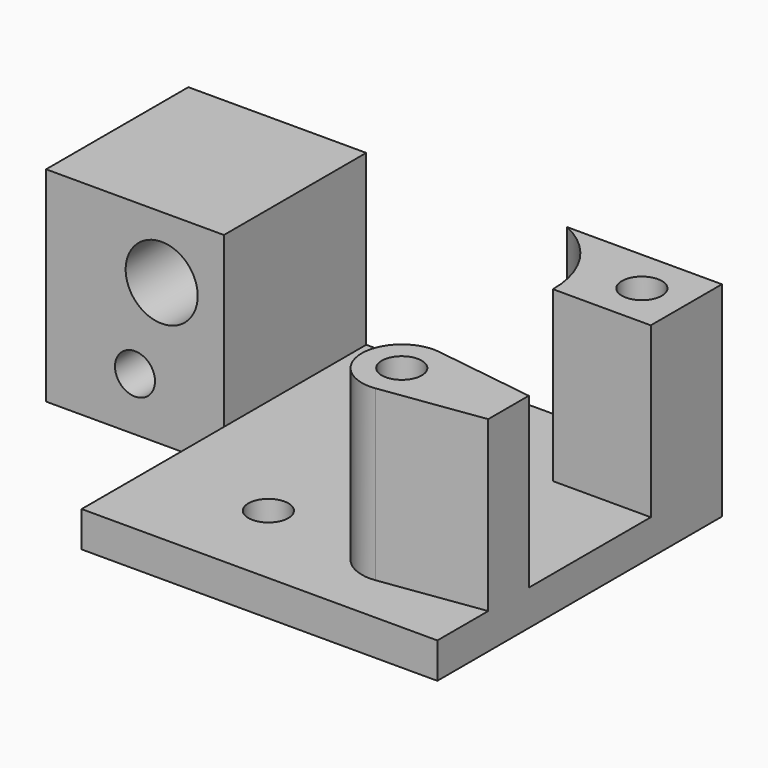
from build123d import *

# Parameters (mm, degrees)
SKETCH_R        = 2.25
PAD_DEPTH       = 23
POCKET_DEPTH    = 19
SKETCH002_R     = 4.05
SKETCH002_R_2   = 2.25
POCKET001_DEPTH = 20.001
SKETCH003_R     = 2.25
POCKET002_DEPTH = 10
SKETCH004_R     = 3.75
POCKET003_DEPTH = 10
SKETCH005_R     = 3.75
POCKET004_DEPTH = 10


with BuildPart() as part:
    # Sketch → Pad (new body)
    with BuildSketch(Plane.XY):
        Polygon((0, -20), (40, -20), (40, 20), (-20, 20), (-20, 0), (0, 0), align=None)
        with Locations((18, 8)):
            Circle(SKETCH_R, mode=Mode.SUBTRACT)
        with Locations((13, -10)):
            Circle(SKETCH_R, mode=Mode.SUBTRACT)
        with Locations((28, -10)):
            Circle(SKETCH_R, mode=Mode.SUBTRACT)
    extrude(amount=PAD_DEPTH)

    # Sketch001 → Pocket (cut)
    with BuildSketch(Plane.XY.offset(23)):
        with BuildLine():
            Line((46, 10), (29, 10))
            ThreePointArc((29, 10), (25.778159, 17.77819), (17.999956, 21))
            Line((17.999956, 21), (0, 21))
            Line((0, 21), (0, -23))
            Line((0, -23), (46, -23))
            Line((46, -23), (46, -12))
            Line((28.629923, -14.455693), (46, -12))
            ThreePointArc((28.629923, -5.544307), (23.5, -10), (28.629923, -14.455693))
            Line((28.629923, -5.544307), (46, -8))
            Line((46, -8), (46, 10))
        make_face()
    extrude(amount=-POCKET_DEPTH, mode=Mode.SUBTRACT)

    # Sketch002 → Pocket001 (cut, through all)
    with BuildSketch(Plane.XZ):
        with Locations((-7, 16)):
            Circle(SKETCH002_R)
        with Locations((-10, 6)):
            Circle(SKETCH002_R_2)
    extrude(amount=-POCKET001_DEPTH, mode=Mode.SUBTRACT)

    # Sketch003 → Pocket002 (cut)
    with BuildSketch(Plane.XY.offset(23)):
        with Locations((35, 15)):
            Circle(SKETCH003_R)
    extrude(amount=-POCKET002_DEPTH, mode=Mode.SUBTRACT)

    # Sketch004 → Pocket003 (cut)
    with BuildSketch(Plane(origin=(0, 20, 0), x_dir=(-1, 0, 0), z_dir=(0, 1, 0))):
        with Locations((10, 6)):
            Circle(SKETCH004_R)
    extrude(amount=-POCKET003_DEPTH, mode=Mode.SUBTRACT)

    # Sketch005 → Pocket004 (cut)
    with BuildSketch(Plane(origin=(0, 0, 0), x_dir=(1, 0, 0), z_dir=(0, 0, -1))):
        with Locations((28, 10)):
            Circle(SKETCH005_R)
    extrude(amount=-POCKET004_DEPTH, mode=Mode.SUBTRACT)


solid = part.part
